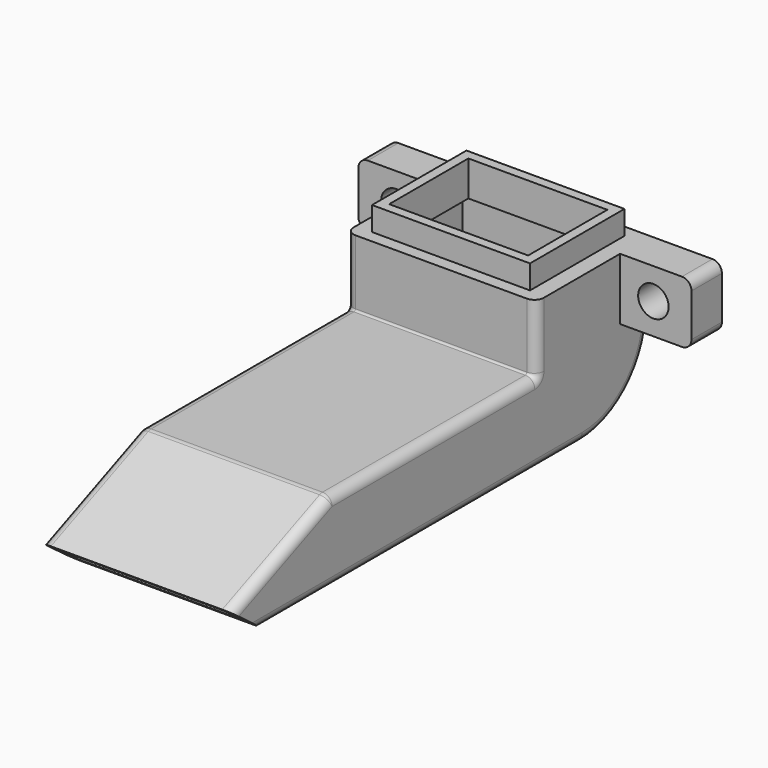
from build123d import *

# Parameters (mm, degrees)
CYLINDER037_R          = 1.6
CYLINDER037_DEPTH      = 30
CYLINDER037_ROLL_ANGLE = -90
CYLINDER036_R          = 1.6
CYLINDER036_DEPTH      = 30
CYLINDER036_ROLL_ANGLE = -90
BOX034_W               = 8.25
BOX034_H               = 4
BOX034_DEPTH           = 6.5
BOX035_W               = 8.25
BOX035_H               = 4
BOX035_DEPTH           = 6.5
FILLET028_R            = 1
BOX037_W               = 14.6
BOX037_H               = 10.4
BOX037_DEPTH           = 12
BOX036_W               = 16.6
BOX036_H               = 12.4
BOX036_DEPTH           = 3
PAD012_DEPTH           = 20
FILLET029_1_R          = 9
FILLET029_2_R          = 0.2
THICKNESS001_T         = -1.2
CHAMFER009_1_SIZE      = 1
CHAMFER009_2_SIZE      = 0.5
FILLET030_R            = 1
CHAMFER010_SIZE        = 0.3


with BuildPart() as cylinder037:
    # Cylinder037 → Cylinder037 (new body)
    with BuildSketch(Plane.XY):
        Circle(CYLINDER037_R)
    extrude(amount=CYLINDER037_DEPTH)


with BuildPart() as cylinder037_1:
    # Cylinder037 roll: moved
    add(cylinder037.part.rotate(Axis((0, 0, 0), (1, 0, 0)), CYLINDER037_ROLL_ANGLE))


with BuildPart() as cylinder037_2:
    # Cylinder037 placement: moved
    add(cylinder037_1.part.moved(Location((-25, 27, -34.75))))


with BuildPart() as fusion033:
    # Cylinder036 → Cylinder036 (new body)
    with BuildSketch(Plane.XY):
        Circle(CYLINDER036_R)
    extrude(amount=CYLINDER036_DEPTH)


with BuildPart() as fusion033_1:
    # Cylinder036 roll: moved
    add(fusion033.part.rotate(Axis((0, 0, 0), (1, 0, 0)), CYLINDER036_ROLL_ANGLE))


with BuildPart() as fusion033_2:
    # Cylinder036 placement: moved
    add(fusion033_1.part.moved(Location((2, 27, -34.75))))

    # Fusion033: union Cylinder037
    add(cylinder037_2.part)


with BuildPart() as cube034:
    # Box034 → Box034 (new body)
    with BuildSketch(Plane(origin=(-29, 45, -38), x_dir=(1, 0, 0), z_dir=(0, 0, 1))):
        with Locations((4.125, 2)):
            Rectangle(BOX034_W, BOX034_H)
    extrude(amount=BOX034_DEPTH)


with BuildPart() as fillet028:
    # Box035 → Box035 (new body)
    with BuildSketch(Plane(origin=(-2.25, 45, -38), x_dir=(1, 0, 0), z_dir=(0, 0, 1))):
        with Locations((4.125, 2)):
            Rectangle(BOX035_W, BOX035_H)
    extrude(amount=BOX035_DEPTH)

    # Fusion032: union Cube034
    add(cube034.part)

    # Cut039: cut Fusion033
    add(fusion033_2.part, mode=Mode.SUBTRACT)

    # Fillet028
    fillet028_edges = [fillet028.edges().sort_by_distance(p)[0] for p in [
        (6, 47, -31.5),
        (6, 47, -38),
        (-29, 47, -31.5),
        (-29, 47, -38),
    ]]
    fillet(fillet028_edges, radius=FILLET028_R)


with BuildPart() as cube037:
    # Box037 → Box037 (new body)
    with BuildSketch(Plane(origin=(-18.8, 36.3, -39), x_dir=(1, 0, 0), z_dir=(0, 0, 1))):
        with Locations((7.3, 5.2)):
            Rectangle(BOX037_W, BOX037_H)
    extrude(amount=BOX037_DEPTH)


with BuildPart() as cube036:
    # Box036 → Box036 (new body)
    with BuildSketch(Plane(origin=(-19.8, 35.3, -32), x_dir=(1, 0, 0), z_dir=(0, 0, 1))):
        with Locations((8.3, 6.2)):
            Rectangle(BOX036_W, BOX036_H)
    extrude(amount=BOX036_DEPTH)


with BuildPart() as chamfer010:
    # Sketch014 → Pad012 (new body)
    with BuildSketch(Plane(origin=(-1.5, 4, 0), x_dir=(0, 1, 0), z_dir=(1, 0, 0))):
        Polygon((-10, -44), (2.97206, -38.5), (30, -38.5), (30, -31.5), (45, -31.5), (45, -47), (-6, -47), align=None)
    extrude(amount=-PAD012_DEPTH)

    # Fillet029 1
    fillet029_1_edges = [chamfer010.edges().sort_by_distance(p)[0] for p in [
        (-11.5, 49, -47),
    ]]
    fillet(fillet029_1_edges, radius=FILLET029_1_R)

    # Fillet029 2
    fillet029_2_edges = [chamfer010.edges().sort_by_distance(p)[0] for p in [
        (-11.5, 34, -38.5),
    ]]
    fillet(fillet029_2_edges, radius=FILLET029_2_R)

    # Thickness001
    thickness001_openings = [chamfer010.faces().sort_by_distance(p)[0] for p in [
        (-11.5, -4, -45.5),
    ]]
    offset(amount=THICKNESS001_T, openings=thickness001_openings)

    # Fusion034: union Cube036
    add(cube036.part)

    # Cut040: cut Cube037
    add(cube037.part, mode=Mode.SUBTRACT)

    # Chamfer009 1
    chamfer009_1_edges = [chamfer010.edges().sort_by_distance(p)[0] for p in [
        (-11.5, -3.6, -45.8),
    ]]
    chamfer(chamfer009_1_edges, length=CHAMFER009_1_SIZE)

    # Chamfer009 2
    chamfer009_2_edges = [chamfer010.edges().sort_by_distance(p)[0] for p in [
        (-11.5, -4.889764, -44.832677),
    ]]
    chamfer(chamfer009_2_edges, length=CHAMFER009_2_SIZE)

    # Fusion035: union Fillet028
    add(fillet028.part)

    # Fillet030
    fillet030_edges = [chamfer010.edges().sort_by_distance(p)[0] for p in [
        (-1.5, 19, -47),
        (-21.5, 19, -47),
        (-1.5, 0.48603, -41.25),
        (-1.5, 20.38603, -38.5),
        (-11.5, 6.97206, -38.5),
        (-21.5, 0.48603, -41.25),
        (-21.5, 20.38603, -38.5),
    ]]
    fillet(fillet030_edges, radius=FILLET030_R)

    # Chamfer010
    chamfer010_edges = [chamfer010.edges().sort_by_distance(p)[0] for p in [
        (-11.5, -2.6, -45.8),
    ]]
    chamfer(chamfer010_edges, length=CHAMFER010_SIZE)


solid = chamfer010.part
